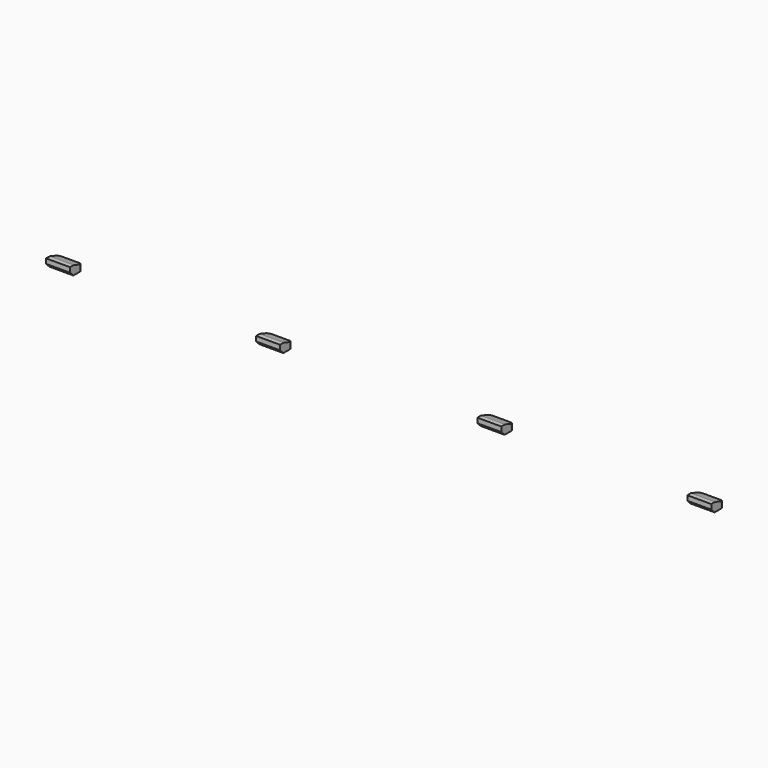
from build123d import *

# Parameters (mm, degrees)
BOX085192_W                  = 6.4
BOX085192_H                  = 4.2
BOX085192_DEPTH              = 2.4
CHAMFER011006003017079_SIZE  = 1.1
CHAMFER011006003017078_SIZE2 = 1
CHAMFER011006003017078_SIZE  = 3
BOX085193_W                  = 6.4
BOX085193_H                  = 4.2
BOX085193_DEPTH              = 2.4
CHAMFER011006003017081_SIZE  = 1.1
CHAMFER011006003017080_SIZE2 = 1
CHAMFER011006003017080_SIZE  = 3
BOX085194_W                  = 6.4
BOX085194_H                  = 4.2
BOX085194_DEPTH              = 2.4
CHAMFER011006003017083_SIZE  = 1.1
CHAMFER011006003017082_SIZE2 = 1
CHAMFER011006003017082_SIZE  = 3
BOX085191_W                  = 6.4
BOX085191_H                  = 4.2
BOX085191_DEPTH              = 2.4
CHAMFER011006003017076_SIZE  = 1.1
CHAMFER011006003017077_SIZE2 = 1
CHAMFER011006003017077_SIZE  = 3
FILLET005011017082052_R      = 1


with BuildPart() as chamfer011006003017078:
    # Box085192 → Box085192 (new body)
    with BuildSketch(Plane(origin=(63.8, 113, 95.8), x_dir=(1, 0, 0), z_dir=(0, 0, 1))):
        with Locations((3.2, 2.1)):
            Rectangle(BOX085192_W, BOX085192_H)
    extrude(amount=BOX085192_DEPTH)

    # Chamfer011006003017079
    chamfer011006003017079_edges = [chamfer011006003017078.edges().sort_by_distance(p)[0] for p in [
        (67, 113, 95.8),
    ]]
    chamfer(chamfer011006003017079_edges, length=CHAMFER011006003017079_SIZE)

    # Chamfer011006003017078
    chamfer011006003017078_edges = [chamfer011006003017078.edges().sort_by_distance(p)[0] for p in [
        (67, 117.2, 98.2),
    ]]
    chamfer011006003017078_side = chamfer011006003017078.faces().sort_by_distance((67, 115.1, 98.2))[0]
    chamfer(chamfer011006003017078_edges, length=CHAMFER011006003017078_SIZE, length2=CHAMFER011006003017078_SIZE2, reference=chamfer011006003017078_side)


with BuildPart() as chamfer011006003017080:
    # Box085193 → Box085193 (new body)
    with BuildSketch(Plane(origin=(122.8, 113, 95.8), x_dir=(1, 0, 0), z_dir=(0, 0, 1))):
        with Locations((3.2, 2.1)):
            Rectangle(BOX085193_W, BOX085193_H)
    extrude(amount=BOX085193_DEPTH)

    # Chamfer011006003017081
    chamfer011006003017081_edges = [chamfer011006003017080.edges().sort_by_distance(p)[0] for p in [
        (126, 113, 95.8),
    ]]
    chamfer(chamfer011006003017081_edges, length=CHAMFER011006003017081_SIZE)

    # Chamfer011006003017080
    chamfer011006003017080_edges = [chamfer011006003017080.edges().sort_by_distance(p)[0] for p in [
        (126, 117.2, 98.2),
    ]]
    chamfer011006003017080_side = chamfer011006003017080.faces().sort_by_distance((126, 115.1, 98.2))[0]
    chamfer(chamfer011006003017080_edges, length=CHAMFER011006003017080_SIZE, length2=CHAMFER011006003017080_SIZE2, reference=chamfer011006003017080_side)


with BuildPart() as chamfer011006003017082:
    # Box085194 → Box085194 (new body)
    with BuildSketch(Plane(origin=(178.8, 113, 95.8), x_dir=(1, 0, 0), z_dir=(0, 0, 1))):
        with Locations((3.2, 2.1)):
            Rectangle(BOX085194_W, BOX085194_H)
    extrude(amount=BOX085194_DEPTH)

    # Chamfer011006003017083
    chamfer011006003017083_edges = [chamfer011006003017082.edges().sort_by_distance(p)[0] for p in [
        (182, 113, 95.8),
    ]]
    chamfer(chamfer011006003017083_edges, length=CHAMFER011006003017083_SIZE)

    # Chamfer011006003017082
    chamfer011006003017082_edges = [chamfer011006003017082.edges().sort_by_distance(p)[0] for p in [
        (182, 117.2, 98.2),
    ]]
    chamfer011006003017082_side = chamfer011006003017082.faces().sort_by_distance((182, 115.1, 98.2))[0]
    chamfer(chamfer011006003017082_edges, length=CHAMFER011006003017082_SIZE, length2=CHAMFER011006003017082_SIZE2, reference=chamfer011006003017082_side)


with BuildPart() as top_tab_holes:
    # Box085191 → Box085191 (new body)
    with BuildSketch(Plane(origin=(7.8, 113, 95.8), x_dir=(1, 0, 0), z_dir=(0, 0, 1))):
        with Locations((3.2, 2.1)):
            Rectangle(BOX085191_W, BOX085191_H)
    extrude(amount=BOX085191_DEPTH)

    # Chamfer011006003017076
    chamfer011006003017076_edges = [top_tab_holes.edges().sort_by_distance(p)[0] for p in [
        (11, 113, 95.8),
    ]]
    chamfer(chamfer011006003017076_edges, length=CHAMFER011006003017076_SIZE)

    # Chamfer011006003017077
    chamfer011006003017077_edges = [top_tab_holes.edges().sort_by_distance(p)[0] for p in [
        (11, 117.2, 98.2),
    ]]
    chamfer011006003017077_side = top_tab_holes.faces().sort_by_distance((11, 115.1, 98.2))[0]
    chamfer(chamfer011006003017077_edges, length=CHAMFER011006003017077_SIZE, length2=CHAMFER011006003017077_SIZE2, reference=chamfer011006003017077_side)

    # Fusion004008002002002001007002002026012041: union Chamfer011006003017078, Chamfer011006003017080, Chamfer011006003017082
    add(chamfer011006003017078.part)
    add(chamfer011006003017080.part)
    add(chamfer011006003017082.part)

    # Fillet005011017082052
    fillet005011017082052_edges = [top_tab_holes.edges().sort_by_distance(p)[0] for p in [
        (7.8, 117.2, 96.5),
        (14.2, 117.2, 96.5),
        (63.8, 117.2, 96.5),
        (70.2, 117.2, 96.5),
        (122.8, 117.2, 96.5),
        (129.2, 117.2, 96.5),
        (178.8, 117.2, 96.5),
        (185.2, 117.2, 96.5),
    ]]
    fillet(fillet005011017082052_edges, radius=FILLET005011017082052_R)


solid = top_tab_holes.part
